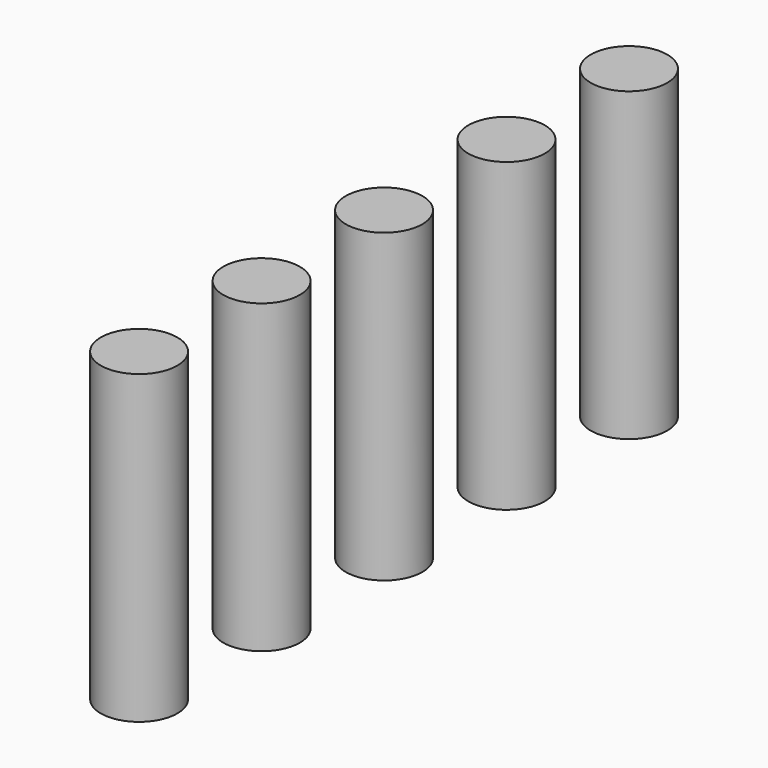
from build123d import *

# Parameters (mm, degrees)
CYLINDER006_R     = 2.5
CYLINDER006_DEPTH = 20
CYLINDER007_R     = 2.5
CYLINDER007_DEPTH = 20
CYLINDER008_R     = 2.5
CYLINDER008_DEPTH = 20
CYLINDER009_R     = 2.5
CYLINDER009_DEPTH = 20
CYLINDER005_R     = 2.5
CYLINDER005_DEPTH = 20


with BuildPart() as cylinder006:
    # cylinder006 → cylinder006 (new body)
    with BuildSketch(Plane(origin=(0, 10, -24.5), x_dir=(1, 0, 0), z_dir=(0, 0, 1))):
        Circle(CYLINDER006_R)
    extrude(amount=CYLINDER006_DEPTH)


with BuildPart() as cylinder007:
    # cylinder007 → cylinder007 (new body)
    with BuildSketch(Plane(origin=(0, 20, -24.5), x_dir=(1, 0, 0), z_dir=(0, 0, 1))):
        Circle(CYLINDER007_R)
    extrude(amount=CYLINDER007_DEPTH)


with BuildPart() as cylinder008:
    # cylinder008 → cylinder008 (new body)
    with BuildSketch(Plane(origin=(0, 30, -24.5), x_dir=(1, 0, 0), z_dir=(0, 0, 1))):
        Circle(CYLINDER008_R)
    extrude(amount=CYLINDER008_DEPTH)


with BuildPart() as cylinder009:
    # cylinder009 → cylinder009 (new body)
    with BuildSketch(Plane(origin=(0, 40, -24.5), x_dir=(1, 0, 0), z_dir=(0, 0, 1))):
        Circle(CYLINDER009_R)
    extrude(amount=CYLINDER009_DEPTH)


with BuildPart() as matrix_union:
    # cylinder005 → cylinder005 (new body)
    with BuildSketch(Plane.XY.offset(-24.5)):
        Circle(CYLINDER005_R)
    extrude(amount=CYLINDER005_DEPTH)

    # Matrix_Union: union cylinder006, cylinder007, cylinder008, cylinder009
    add(cylinder006.part)
    add(cylinder007.part)
    add(cylinder008.part)
    add(cylinder009.part)


solid = matrix_union.part
